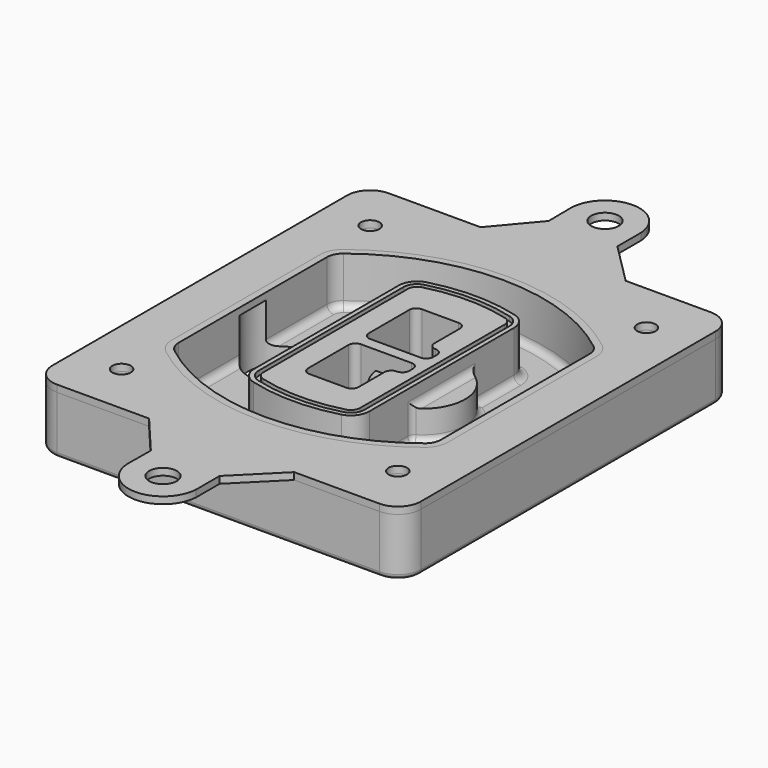
from build123d import *

# Parameters (mm, degrees)
F0_R      = 4
F1_DEPTH  = 25
F2_DEPTH  = 3
F3_DEPTH  = 18
F5_DEPTH  = 21
F6_DEPTH  = 2
F8_DEPTH  = 20
F9_DEPTH  = 16
F10_DEPTH = 25
F7_R      = 6
F7_R_2    = 4
F11_DEPTH = 6
F13_DEPTH = 9
F14_R     = 3
F15_R     = 2
F16_R     = 6
F16_R_2   = 4
F17_DEPTH = 3


with BuildPart() as f1:
    # F0 (on Top) → F1 (new body)
    with BuildSketch(Plane.XY):
        with BuildLine():
            ThreePointArc((-80, -80), (-77.0710678119, -87.0710678119), (-70, -90))
            Line((-70, -90), (70, -90))
            ThreePointArc((70, -90), (77.0710678119, -87.0710678119), (80, -80))
            Line((80, -80), (80, 80))
            ThreePointArc((80, 80), (77.0710678119, 87.0710678119), (70, 90))
            Line((70, 90), (-70, 90))
            ThreePointArc((-70, 90), (-77.0710678119, 87.0710678119), (-80, 80))
            Line((-80, 80), (-80, -80))
        make_face()
        with Locations((-60, -67.5)):
            Circle(F0_R, mode=Mode.SUBTRACT)
        with Locations((60, -67.5)):
            Circle(F0_R, mode=Mode.SUBTRACT)
        with Locations((-60, 67.5)):
            Circle(F0_R, mode=Mode.SUBTRACT)
        with BuildLine():
            ThreePointArc((-64, 40.2934422872), (-62.5820384798, 46.4328484224), (-58.6153846154, 51.3286200352))
            ThreePointArc((-58.6153846154, 51.3286200352), (0, 71.5), (58.6153846154, 51.3286200352))
            ThreePointArc((58.6153846154, 51.3286200352), (62.5820384798, 46.4328484224), (64, 40.2934422872))
            Line((64, 40.2934422872), (64, -40.2934422872))
            ThreePointArc((64, -40.2934422872), (62.5820384798, -46.4328484224), (58.6153846154, -51.3286200352))
            ThreePointArc((58.6153846154, -51.3286200352), (0, -71.5), (-58.6153846154, -51.3286200352))
            ThreePointArc((-58.6153846154, -51.3286200352), (-62.5820384798, -46.4328484224), (-64, -40.2934422872))
            Line((-64, -40.2934422872), (-64, 40.2934422872))
        make_face(mode=Mode.SUBTRACT)
        with Locations((60, 67.5)):
            Circle(F0_R, mode=Mode.SUBTRACT)
        with BuildLine():
            ThreePointArc((58.6153846154, 51.3286200352), (0, 71.5), (-58.6153846154, 51.3286200352))
            ThreePointArc((-58.6153846154, 51.3286200352), (-62.5820384798, 46.4328484224), (-64, 40.2934422872))
            Line((-64, 40.2934422872), (-64, -40.2934422872))
            ThreePointArc((-64, -40.2934422872), (-62.5820384798, -46.4328484224), (-58.6153846154, -51.3286200352))
            ThreePointArc((-58.6153846154, -51.3286200352), (0, -71.5), (58.6153846154, -51.3286200352))
            ThreePointArc((58.6153846154, -51.3286200352), (62.5820384798, -46.4328484224), (64, -40.2934422872))
            Line((64, -40.2934422872), (64, 40.2934422872))
            ThreePointArc((64, 40.2934422872), (62.5820384798, 46.4328484224), (58.6153846154, 51.3286200352))
        make_face()
        with BuildLine():
            Line((-60, -40.2934422872), (-60, 40.2934422872))
            ThreePointArc((-60, 40.2934422872), (-58.9871703427, 44.6787323838), (-56.1538461538, 48.1757121072))
            ThreePointArc((-56.1538461538, 48.1757121072), (0, 67.5), (56.1538461538, 48.1757121072))
            ThreePointArc((56.1538461538, 48.1757121072), (58.9871703427, 44.6787323838), (60, 40.2934422872))
            Line((60, 40.2934422872), (60, -40.2934422872))
            ThreePointArc((60, -40.2934422872), (58.9871703427, -44.6787323838), (56.1538461538, -48.1757121072))
            ThreePointArc((56.1538461538, -48.1757121072), (0, -67.5), (-56.1538461538, -48.1757121072))
            ThreePointArc((-56.1538461538, -48.1757121072), (-58.9871703427, -44.6787323838), (-60, -40.2934422872))
        make_face(mode=Mode.SUBTRACT)
        with BuildLine():
            ThreePointArc((-56.1538461538, 48.1757121072), (-58.9871703427, 44.6787323838), (-60, 40.2934422872))
            Line((-60, 40.2934422872), (-60, -40.2934422872))
            ThreePointArc((-60, -40.2934422872), (-58.9871703427, -44.6787323838), (-56.1538461538, -48.1757121072))
            ThreePointArc((-56.1538461538, -48.1757121072), (0, -67.5), (56.1538461538, -48.1757121072))
            ThreePointArc((56.1538461538, -48.1757121072), (58.9871703427, -44.6787323838), (60, -40.2934422872))
            Line((60, -40.2934422872), (60, 40.2934422872))
            ThreePointArc((60, 40.2934422872), (58.9871703427, 44.6787323838), (56.1538461538, 48.1757121072))
            ThreePointArc((56.1538461538, 48.1757121072), (0, 67.5), (-56.1538461538, 48.1757121072))
        make_face()
        with BuildLine():
            ThreePointArc((54.3076923077, 45.8110311612), (56.2910192399, 43.3631453548), (57, 40.2934422872))
            Line((57, 40.2934422872), (57, -40.2934422872))
            ThreePointArc((57, -40.2934422872), (56.2910192399, -43.3631453548), (54.3076923077, -45.8110311612))
            ThreePointArc((54.3076923077, -45.8110311612), (0, -64.5), (-54.3076923077, -45.8110311612))
            ThreePointArc((-54.3076923077, -45.8110311612), (-56.2910192399, -43.3631453548), (-57, -40.2934422872))
            Line((-57, -40.2934422872), (-57, 40.2934422872))
            ThreePointArc((-57, 40.2934422872), (-56.2910192399, 43.3631453548), (-54.3076923077, 45.8110311612))
            ThreePointArc((-54.3076923077, 45.8110311612), (0, 64.5), (54.3076923077, 45.8110311612))
        make_face(mode=Mode.SUBTRACT)
        with BuildLine():
            Line((57, -40.2934422872), (57, 40.2934422872))
            ThreePointArc((57, 40.2934422872), (56.2910192399, 43.3631453548), (54.3076923077, 45.8110311612))
            ThreePointArc((54.3076923077, 45.8110311612), (0, 64.5), (-54.3076923077, 45.8110311612))
            ThreePointArc((-54.3076923077, 45.8110311612), (-56.2910192399, 43.3631453548), (-57, 40.2934422872))
            Line((-57, 40.2934422872), (-57, -40.2934422872))
            ThreePointArc((-57, -40.2934422872), (-56.2910192399, -43.3631453548), (-54.3076923077, -45.8110311612))
            ThreePointArc((-54.3076923077, -45.8110311612), (0, -64.5), (54.3076923077, -45.8110311612))
            ThreePointArc((54.3076923077, -45.8110311612), (56.2910192399, -43.3631453548), (57, -40.2934422872))
        make_face()
    extrude(amount=-F1_DEPTH)

    # F0 (on Top) → F2 (join)
    with BuildSketch(Plane.XY):
        with BuildLine():
            ThreePointArc((-56.1538461538, 48.1757121072), (-58.9871703427, 44.6787323838), (-60, 40.2934422872))
            Line((-60, 40.2934422872), (-60, -40.2934422872))
            ThreePointArc((-60, -40.2934422872), (-58.9871703427, -44.6787323838), (-56.1538461538, -48.1757121072))
            ThreePointArc((-56.1538461538, -48.1757121072), (0, -67.5), (56.1538461538, -48.1757121072))
            ThreePointArc((56.1538461538, -48.1757121072), (58.9871703427, -44.6787323838), (60, -40.2934422872))
            Line((60, -40.2934422872), (60, 40.2934422872))
            ThreePointArc((60, 40.2934422872), (58.9871703427, 44.6787323838), (56.1538461538, 48.1757121072))
            ThreePointArc((56.1538461538, 48.1757121072), (0, 67.5), (-56.1538461538, 48.1757121072))
        make_face()
        with BuildLine():
            ThreePointArc((54.3076923077, 45.8110311612), (56.2910192399, 43.3631453548), (57, 40.2934422872))
            Line((57, 40.2934422872), (57, -40.2934422872))
            ThreePointArc((57, -40.2934422872), (56.2910192399, -43.3631453548), (54.3076923077, -45.8110311612))
            ThreePointArc((54.3076923077, -45.8110311612), (0, -64.5), (-54.3076923077, -45.8110311612))
            ThreePointArc((-54.3076923077, -45.8110311612), (-56.2910192399, -43.3631453548), (-57, -40.2934422872))
            Line((-57, -40.2934422872), (-57, 40.2934422872))
            ThreePointArc((-57, 40.2934422872), (-56.2910192399, 43.3631453548), (-54.3076923077, 45.8110311612))
            ThreePointArc((-54.3076923077, 45.8110311612), (0, 64.5), (54.3076923077, 45.8110311612))
        make_face(mode=Mode.SUBTRACT)
    extrude(amount=F2_DEPTH)

    # F0 (on Top) → F3 (cut)
    with BuildSketch(Plane.XY):
        with BuildLine():
            Line((57, -40.2934422872), (57, 40.2934422872))
            ThreePointArc((57, 40.2934422872), (56.2910192399, 43.3631453548), (54.3076923077, 45.8110311612))
            ThreePointArc((54.3076923077, 45.8110311612), (0, 64.5), (-54.3076923077, 45.8110311612))
            ThreePointArc((-54.3076923077, 45.8110311612), (-56.2910192399, 43.3631453548), (-57, 40.2934422872))
            Line((-57, 40.2934422872), (-57, -40.2934422872))
            ThreePointArc((-57, -40.2934422872), (-56.2910192399, -43.3631453548), (-54.3076923077, -45.8110311612))
            ThreePointArc((-54.3076923077, -45.8110311612), (0, -64.5), (54.3076923077, -45.8110311612))
            ThreePointArc((54.3076923077, -45.8110311612), (56.2910192399, -43.3631453548), (57, -40.2934422872))
        make_face()
    extrude(amount=-F3_DEPTH, mode=Mode.SUBTRACT)

    # F4 (on face) → F5 (join, through all)
    with BuildSketch(Plane.XY.offset(3)):
        with BuildLine():
            ThreePointArc((-25, -39.2465276821), (-23.3511545998, -44.1109737193), (-19.0842911877, -46.9702398883))
            ThreePointArc((-19.0842911877, -46.9702398883), (0, -49.5), (19.0842911877, -46.9702398883))
            ThreePointArc((19.0842911877, -46.9702398883), (23.3511545998, -44.1109737193), (25, -39.2465276821))
            Line((25, -39.2465276821), (25, 39.2465276821))
            ThreePointArc((25, 39.2465276821), (23.3511545998, 44.1109737193), (19.0842911877, 46.9702398883))
            ThreePointArc((19.0842911877, 46.9702398883), (0, 49.5), (-19.0842911877, 46.9702398883))
            ThreePointArc((-19.0842911877, 46.9702398883), (-23.3511545998, 44.1109737193), (-25, 39.2465276821))
            Line((-25, 39.2465276821), (-25, -39.2465276821))
        make_face()
        with BuildLine():
            ThreePointArc((18.5632183908, 45.0393118368), (21.7633659499, 42.89486221), (23, 39.2465276821))
            Line((23, 39.2465276821), (23, -39.2465276821))
            ThreePointArc((23, -39.2465276821), (21.7633659499, -42.89486221), (18.5632183908, -45.0393118368))
            ThreePointArc((18.5632183908, -45.0393118368), (0, -47.5), (-18.5632183908, -45.0393118368))
            ThreePointArc((-18.5632183908, -45.0393118368), (-21.7633659499, -42.89486221), (-23, -39.2465276821))
            Line((-23, -39.2465276821), (-23, 39.2465276821))
            ThreePointArc((-23, 39.2465276821), (-21.7633659499, 42.89486221), (-18.5632183908, 45.0393118368))
            ThreePointArc((-18.5632183908, 45.0393118368), (0, 47.5), (18.5632183908, 45.0393118368))
        make_face(mode=Mode.SUBTRACT)
        with BuildLine():
            Line((23, -39.2465276821), (23, 39.2465276821))
            ThreePointArc((23, 39.2465276821), (21.7633659499, 42.89486221), (18.5632183908, 45.0393118368))
            ThreePointArc((18.5632183908, 45.0393118368), (0, 47.5), (-18.5632183908, 45.0393118368))
            ThreePointArc((-18.5632183908, 45.0393118368), (-21.7633659499, 42.89486221), (-23, 39.2465276821))
            Line((-23, 39.2465276821), (-23, -39.2465276821))
            ThreePointArc((-23, -39.2465276821), (-21.7633659499, -42.89486221), (-18.5632183908, -45.0393118368))
            ThreePointArc((-18.5632183908, -45.0393118368), (0, -47.5), (18.5632183908, -45.0393118368))
            ThreePointArc((18.5632183908, -45.0393118368), (21.7633659499, -42.89486221), (23, -39.2465276821))
        make_face()
        with BuildLine():
            ThreePointArc((18.0421455939, 43.1083837852), (20.1755772999, 41.6787507007), (21, 39.2465276821))
            Line((21, 39.2465276821), (21, -39.2465276821))
            ThreePointArc((21, -39.2465276821), (20.1755772999, -41.6787507007), (18.0421455939, -43.1083837852))
            ThreePointArc((18.0421455939, -43.1083837852), (0, -45.5), (-18.0421455939, -43.1083837852))
            ThreePointArc((-18.0421455939, -43.1083837852), (-20.1755772999, -41.6787507007), (-21, -39.2465276821))
            Line((-21, -39.2465276821), (-21, 39.2465276821))
            ThreePointArc((-21, 39.2465276821), (-20.1755772999, 41.6787507007), (-18.0421455939, 43.1083837852))
            ThreePointArc((-18.0421455939, 43.1083837852), (0, 45.5), (18.0421455939, 43.1083837852))
        make_face(mode=Mode.SUBTRACT)
        with BuildLine():
            Line((21, -39.2465276821), (21, 39.2465276821))
            ThreePointArc((21, 39.2465276821), (20.1755772999, 41.6787507007), (18.0421455939, 43.1083837852))
            ThreePointArc((18.0421455939, 43.1083837852), (0, 45.5), (-18.0421455939, 43.1083837852))
            ThreePointArc((-18.0421455939, 43.1083837852), (-20.1755772999, 41.6787507007), (-21, 39.2465276821))
            Line((-21, 39.2465276821), (-21, -39.2465276821))
            ThreePointArc((-21, -39.2465276821), (-20.1755772999, -41.6787507007), (-18.0421455939, -43.1083837852))
            ThreePointArc((-18.0421455939, -43.1083837852), (0, -45.5), (18.0421455939, -43.1083837852))
            ThreePointArc((18.0421455939, -43.1083837852), (20.1755772999, -41.6787507007), (21, -39.2465276821))
        make_face()
        with BuildLine():
            Line((-8, -2.5), (14, -2.5))
            ThreePointArc((14, -2.5), (16.1213203436, -3.3786796564), (17, -5.5))
            Line((17, -5.5), (17, -7.5))
            ThreePointArc((17, -7.5), (16.1213203436, -9.6213203436), (14, -10.5))
            ThreePointArc((14, -10.5), (11.8786796564, -11.3786796564), (11, -13.5))
            Line((11, -13.5), (11, -27.5))
            ThreePointArc((11, -27.5), (10.1213203436, -29.6213203436), (8, -30.5))
            Line((8, -30.5), (-8, -30.5))
            ThreePointArc((-8, -30.5), (-10.1213203436, -29.6213203436), (-11, -27.5))
            Line((-11, -27.5), (-11, -5.5))
            ThreePointArc((-11, -5.5), (-10.1213203436, -3.3786796564), (-8, -2.5))
        make_face(mode=Mode.SUBTRACT)
        with BuildLine():
            ThreePointArc((-8, 2.5), (-10.1213203436, 3.3786796564), (-11, 5.5))
            Line((-11, 5.5), (-11, 27.5))
            ThreePointArc((-11, 27.5), (-10.1213203436, 29.6213203436), (-8, 30.5))
            Line((-8, 30.5), (8, 30.5))
            ThreePointArc((8, 30.5), (10.1213203436, 29.6213203436), (11, 27.5))
            Line((11, 27.5), (11, 13.5))
            ThreePointArc((11, 13.5), (11.8786796564, 11.3786796564), (14, 10.5))
            ThreePointArc((14, 10.5), (16.1213203436, 9.6213203436), (17, 7.5))
            Line((17, 7.5), (17, 5.5))
            ThreePointArc((17, 5.5), (16.1213203436, 3.3786796564), (14, 2.5))
            Line((14, 2.5), (-8, 2.5))
        make_face(mode=Mode.SUBTRACT)
    extrude(amount=-F5_DEPTH)

    # F4 (on face) → F6 (cut)
    with BuildSketch(Plane.XY.offset(3)):
        with BuildLine():
            Line((23, -39.2465276821), (23, 39.2465276821))
            ThreePointArc((23, 39.2465276821), (21.7633659499, 42.89486221), (18.5632183908, 45.0393118368))
            ThreePointArc((18.5632183908, 45.0393118368), (0, 47.5), (-18.5632183908, 45.0393118368))
            ThreePointArc((-18.5632183908, 45.0393118368), (-21.7633659499, 42.89486221), (-23, 39.2465276821))
            Line((-23, 39.2465276821), (-23, -39.2465276821))
            ThreePointArc((-23, -39.2465276821), (-21.7633659499, -42.89486221), (-18.5632183908, -45.0393118368))
            ThreePointArc((-18.5632183908, -45.0393118368), (0, -47.5), (18.5632183908, -45.0393118368))
            ThreePointArc((18.5632183908, -45.0393118368), (21.7633659499, -42.89486221), (23, -39.2465276821))
        make_face()
        with BuildLine():
            ThreePointArc((18.0421455939, 43.1083837852), (20.1755772999, 41.6787507007), (21, 39.2465276821))
            Line((21, 39.2465276821), (21, -39.2465276821))
            ThreePointArc((21, -39.2465276821), (20.1755772999, -41.6787507007), (18.0421455939, -43.1083837852))
            ThreePointArc((18.0421455939, -43.1083837852), (0, -45.5), (-18.0421455939, -43.1083837852))
            ThreePointArc((-18.0421455939, -43.1083837852), (-20.1755772999, -41.6787507007), (-21, -39.2465276821))
            Line((-21, -39.2465276821), (-21, 39.2465276821))
            ThreePointArc((-21, 39.2465276821), (-20.1755772999, 41.6787507007), (-18.0421455939, 43.1083837852))
            ThreePointArc((-18.0421455939, 43.1083837852), (0, 45.5), (18.0421455939, 43.1083837852))
        make_face(mode=Mode.SUBTRACT)
    extrude(amount=-F6_DEPTH, mode=Mode.SUBTRACT)

    # F7 (on face) → F8 (join)
    with BuildSketch(Plane(origin=(0, 0, -25), x_dir=(1, 0, 0), z_dir=(0, 0, -1))):
        with BuildLine():
            ThreePointArc((3.28842436, 0), (16.7567035675, 13.4682792075), (30.224982775, 0))
            Line((30.224982775, 0), (35.224982775, 0))
            ThreePointArc((35.224982775, 0), (16.7567035675, 18.4682792075), (-1.71157564, 0))
            Line((-1.71157564, 0), (3.28842436, 0))
        make_face()
        with BuildLine():
            Line((3.28842436, 0), (30.224982775, 0))
            ThreePointArc((30.224982775, 0), (16.7567035675, 13.4682792075), (3.28842436, 0))
        make_face()
        with BuildLine():
            ThreePointArc((3.28842436, 0), (16.7567035675, -13.4682792075), (30.224982775, 0))
            Line((30.224982775, 0), (3.28842436, 0))
        make_face()
        with BuildLine():
            Line((35.224982775, 0), (30.224982775, 0))
            ThreePointArc((30.224982775, 0), (16.7567035675, -13.4682792075), (3.28842436, 0))
            Line((3.28842436, 0), (-1.71157564, 0))
            ThreePointArc((-1.71157564, 0), (16.7567035675, -18.4682792075), (35.224982775, 0))
        make_face()
    extrude(amount=-F8_DEPTH)

    # F7 (on face) → F9 (cut)
    with BuildSketch(Plane(origin=(0, 0, -25), x_dir=(1, 0, 0), z_dir=(0, 0, -1))):
        with BuildLine():
            Line((3.28842436, 0), (30.224982775, 0))
            ThreePointArc((30.224982775, 0), (16.7567035675, 13.4682792075), (3.28842436, 0))
        make_face()
        with BuildLine():
            ThreePointArc((3.28842436, 0), (16.7567035675, -13.4682792075), (30.224982775, 0))
            Line((30.224982775, 0), (3.28842436, 0))
        make_face()
    extrude(amount=-F9_DEPTH, mode=Mode.SUBTRACT)

    # F7 (on face) → F10 (cut)
    with BuildSketch(Plane(origin=(0, 0, -25), x_dir=(1, 0, 0), z_dir=(0, 0, -1))):
        with BuildLine():
            Line((-59.0318229325, 0), (-32.0952645175, 0))
            ThreePointArc((-32.0952645175, 0), (-45.563543725, 13.4682792075), (-59.0318229325, 0))
        make_face()
        with BuildLine():
            ThreePointArc((-59.0318229325, 0), (-45.563543725, -13.4682792075), (-32.0952645175, 0))
            Line((-32.0952645175, 0), (-59.0318229325, 0))
        make_face()
    extrude(amount=-F10_DEPTH, mode=Mode.SUBTRACT)

    # F7 (on face) → F11 (cut)
    with BuildSketch(Plane(origin=(0, 0, -25), x_dir=(1, 0, 0), z_dir=(0, 0, -1))):
        with Locations((60, -67.5)):
            Circle(F7_R)
        with Locations((60, -67.5)):
            Circle(F7_R_2, mode=Mode.SUBTRACT)
        with Locations((60, -67.5)):
            Circle(F7_R)
        with Locations((60, -67.5)):
            Circle(F7_R_2, mode=Mode.SUBTRACT)
        with Locations((-60, -67.5)):
            Circle(F7_R)
        with Locations((-60, -67.5)):
            Circle(F7_R_2, mode=Mode.SUBTRACT)
        with Locations((-60, -67.5)):
            Circle(F7_R)
        with Locations((-60, -67.5)):
            Circle(F7_R_2, mode=Mode.SUBTRACT)
        with Locations((-60, 67.5)):
            Circle(F7_R)
        with Locations((-60, 67.5)):
            Circle(F7_R_2, mode=Mode.SUBTRACT)
        with Locations((-60, 67.5)):
            Circle(F7_R)
        with Locations((-60, 67.5)):
            Circle(F7_R_2, mode=Mode.SUBTRACT)
        with Locations((60, 67.5)):
            Circle(F7_R)
        with Locations((60, 67.5)):
            Circle(F7_R_2, mode=Mode.SUBTRACT)
        with Locations((60, 67.5)):
            Circle(F7_R)
        with Locations((60, 67.5)):
            Circle(F7_R_2, mode=Mode.SUBTRACT)
    extrude(amount=-F11_DEPTH, mode=Mode.SUBTRACT)

    # F12 (on face) → F13 (cut, through all)
    with BuildSketch(Plane(origin=(0, 0, -9), x_dir=(1, 0, 0), z_dir=(0, 0, -1))):
        with BuildLine():
            Line((11, 13.5), (11, 17.5481537753))
            ThreePointArc((11, 17.5481537753), (2.5696536419, 11.8239143813), (-1.5415842455, 2.5))
            Line((-1.5415842455, 2.5), (3.5224848595, 2.5))
            ThreePointArc((3.5224848595, 2.5), (6.1857188154, 8.3455872281), (11.2536447004, 12.2927168648))
            ThreePointArc((11.2536447004, 12.2927168648), (11.0640958889, 12.8831798879), (11, 13.5))
        make_face()
        with BuildLine():
            ThreePointArc((11.2536447004, -12.2927168648), (6.1857188154, -8.3455872281), (3.5224848595, -2.5))
            Line((3.5224848595, -2.5), (-1.5415842455, -2.5))
            ThreePointArc((-1.5415842455, -2.5), (2.5696536419, -11.8239143813), (11, -17.5481537753))
            Line((11, -17.5481537753), (11, -13.5))
            ThreePointArc((11, -13.5), (11.0640958889, -12.8831798879), (11.2536447004, -12.2927168648))
        make_face()
        with BuildLine():
            ThreePointArc((11.2536447004, 12.2927168648), (6.1857188154, 8.3455872281), (3.5224848595, 2.5))
            Line((3.5224848595, 2.5), (14, 2.5))
            ThreePointArc((14, 2.5), (16.1213203436, 3.3786796564), (17, 5.5))
            Line((17, 5.5), (17, 7.5))
            ThreePointArc((17, 7.5), (16.1213203436, 9.6213203436), (14, 10.5))
            ThreePointArc((14, 10.5), (12.3601599782, 10.9878446101), (11.2536447004, 12.2927168648))
        make_face()
        with BuildLine():
            Line((14, -2.5), (3.5224848595, -2.5))
            ThreePointArc((3.5224848595, -2.5), (6.1857188154, -8.3455872281), (11.2536447004, -12.2927168648))
            ThreePointArc((11.2536447004, -12.2927168648), (12.3601599782, -10.9878446101), (14, -10.5))
            ThreePointArc((14, -10.5), (16.1213203436, -9.6213203436), (17, -7.5))
            Line((17, -7.5), (17, -5.5))
            ThreePointArc((17, -5.5), (16.1213203436, -3.3786796564), (14, -2.5))
        make_face()
    extrude(amount=F13_DEPTH, mode=Mode.SUBTRACT)

    # F14
    f14_edges = [f1.edges().sort_by_distance(p)[0] for p in [
        (-57, -23.703476, -18),
        (-57, 23.703476, -18),
        (25, 0, -5),
        (25, 16.526506, -11.5),
        (25, -16.526506, -11.5),
        (25, -27.886517, -18),
        (35.224983, 0, -18),
    ]]
    fillet(f14_edges, radius=F14_R)

    # F15
    f15_edges = [f1.edges().sort_by_distance(p)[0] for p in [
        (0, -90, -25),
    ]]
    fillet(f15_edges, radius=F15_R)


with BuildPart() as f17:
    # F16 (on face) → F17 (new body, through all)
    with BuildSketch(Plane.XY):
        with BuildLine():
            Line((-14.8725230247, 108), (-30.0520453602, 90))
            Line((-30.0520453602, 90), (32.9801487088, 90))
            Line((32.9801487088, 90), (14.9801487088, 108))
            Line((14.9801487088, 108), (14.9801487088, 120.7714561954))
            ThreePointArc((14.9801487088, 120.7714561954), (-0.3858557811, 134.9950363559), (-15, 120))
            Line((-15, 120), (-14.8725230247, 108))
        make_face()
        with Locations((0, 120)):
            Circle(F16_R, mode=Mode.SUBTRACT)
        with BuildLine():
            Line((32.9801487088, 90), (-30.0520453602, 90))
            Line((-30.0520453602, 90), (-70, 90))
            ThreePointArc((-70, 90), (-77.0710678119, 87.0710678119), (-80, 80))
            Line((-80, 80), (-80, -80))
            ThreePointArc((-80, -80), (-77.0710678119, -87.0710678119), (-70, -90))
            Line((-70, -90), (-30.0520453602, -90))
            Line((-30.0520453602, -90), (32.9801487088, -90))
            Line((32.9801487088, -90), (70, -90))
            ThreePointArc((70, -90), (77.0710678119, -87.0710678119), (80, -80))
            Line((80, -80), (80, 80))
            ThreePointArc((80, 80), (77.0710678119, 87.0710678119), (70, 90))
            Line((70, 90), (32.9801487088, 90))
        make_face()
        with Locations((-60, -67.5)):
            Circle(F16_R_2, mode=Mode.SUBTRACT)
        with Locations((60, -67.5)):
            Circle(F16_R_2, mode=Mode.SUBTRACT)
        with Locations((-60, 67.5)):
            Circle(F16_R_2, mode=Mode.SUBTRACT)
        with BuildLine():
            ThreePointArc((-60, 40.2934422872), (-58.9871703427, 44.6787323838), (-56.1538461538, 48.1757121072))
            ThreePointArc((-56.1538461538, 48.1757121072), (0, 67.5), (56.1538461538, 48.1757121072))
            ThreePointArc((56.1538461538, 48.1757121072), (58.9871703427, 44.6787323838), (60, 40.2934422872))
            Line((60, 40.2934422872), (60, -40.2934422872))
            ThreePointArc((60, -40.2934422872), (58.9871703427, -44.6787323838), (56.1538461538, -48.1757121072))
            ThreePointArc((56.1538461538, -48.1757121072), (0, -67.5), (-56.1538461538, -48.1757121072))
            ThreePointArc((-56.1538461538, -48.1757121072), (-58.9871703427, -44.6787323838), (-60, -40.2934422872))
            Line((-60, -40.2934422872), (-60, 40.2934422872))
        make_face(mode=Mode.SUBTRACT)
        with Locations((60, 67.5)):
            Circle(F16_R_2, mode=Mode.SUBTRACT)
        with BuildLine():
            Line((32.9801487088, -90), (-30.0520453602, -90))
            Line((-30.0520453602, -90), (-14.8725230247, -108))
            Line((-14.8725230247, -108), (-15, -120))
            ThreePointArc((-15, -120), (-0.3858557811, -134.9950363559), (14.9801487088, -120.7714561954))
            Line((14.9801487088, -120.7714561954), (14.9801487088, -108))
            Line((14.9801487088, -108), (32.9801487088, -90))
        make_face()
        with Locations((0, -120)):
            Circle(F16_R, mode=Mode.SUBTRACT)
    extrude(amount=F17_DEPTH)


solid = Compound([f1.part, f17.part])
